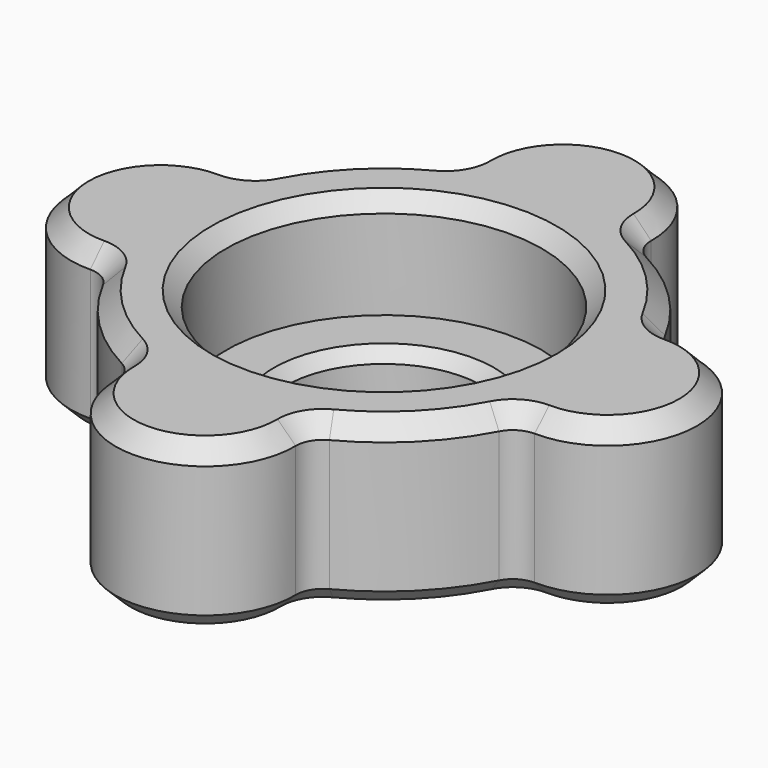
from build123d import *

# Parameters (mm, degrees)
SKETCH_R           = 7.5
SKETCH_R_2         = 3.3
PAD_DEPTH          = 5.5
SKETCH001_R        = 3
PAD001_DEPTH       = 5.5
POLARPATTERN_COUNT = 4
FILLET_R           = 0.9
SKETCH002_R        = 5.3
POCKET_DEPTH       = 3.5
CHAMFER_SIZE       = 0.4
CHAMFER001_SIZE    = 0.6
CHAMFER002_SIZE    = 0.5
CHAMFER003_SIZE    = 0.5
CHAMFER004_SIZE    = 0.5


with BuildPart() as part:
    # Sketch → Pad (new body)
    with BuildSketch(Plane.XY):
        Circle(SKETCH_R)
        Circle(SKETCH_R_2, mode=Mode.SUBTRACT)
    extrude(amount=PAD_DEPTH)

    # Sketch001 (on Face3 of Pad) → Pad001 (join)
    with BuildSketch(Plane(origin=(0, 0, 0), x_dir=(1, 0, 0), z_dir=(0, 0, -1))):
        with Locations((0, -7.5)):
            Circle(SKETCH001_R)
    pad001 = extrude(amount=-PAD001_DEPTH)

    # PolarPattern: Pad001 ×4 about axis
    polarpattern_axis = Axis((0, 0, 0), (0, 0, -1))
    for i in range(1, POLARPATTERN_COUNT):
        add(pad001.rotate(polarpattern_axis, i * 360 / POLARPATTERN_COUNT))

    # Fillet
    fillet_edges = [part.edges().sort_by_distance(p)[0] for p in [
        (-2.939388, -6.9, 2.75),
        (-6.9, -2.939388, 2.75),
        (6.9, -2.939388, 2.75),
        (2.939388, -6.9, 2.75),
        (6.9, 2.939388, 2.75),
        (2.939388, 6.9, 2.75),
        (-2.939388, 6.9, 2.75),
        (-6.9, 2.939388, 2.75),
    ]]
    fillet(fillet_edges, radius=FILLET_R)

    # Sketch002 (on Face17 of Fillet) → Pocket (cut)
    with BuildSketch(Plane.XY.offset(5.5)):
        Circle(SKETCH002_R)
    extrude(amount=-POCKET_DEPTH, mode=Mode.SUBTRACT)

    # Chamfer
    chamfer_edges = [part.edges().sort_by_distance(p)[0] for p in [
        (-3.3, 0, 2),
    ]]
    chamfer(chamfer_edges, length=CHAMFER_SIZE)

    # Chamfer001
    chamfer001_edges = [part.edges().sort_by_distance(p)[0] for p in [
        (-5.303301, 5.303301, 5.5),
        (-10.499911, -0.023078, 5.5),
        (-5.303301, -5.303301, 5.5),
        (0.023078, -10.499911, 5.5),
        (5.303301, -5.303301, 5.5),
        (10.499911, 0.023078, 5.5),
        (5.303301, 5.303301, 5.5),
        (-0.023078, 10.499911, 5.5),
    ]]
    chamfer(chamfer001_edges, length=CHAMFER001_SIZE)

    # Chamfer002
    chamfer002_edges = [part.edges().sort_by_distance(p)[0] for p in [
        (5.303301, -5.303301, 0),
        (0.023078, -10.499911, 0),
        (-5.303301, -5.303301, 0),
        (-10.499911, -0.023078, 0),
        (-5.303301, 5.303301, 0),
        (-0.023078, 10.499911, 0),
        (5.303301, 5.303301, 0),
        (10.499911, 0.023078, 0),
    ]]
    chamfer(chamfer002_edges, length=CHAMFER002_SIZE)

    # Chamfer003
    chamfer003_edges = [part.edges().sort_by_distance(p)[0] for p in [
        (-3.3, 0, 0),
    ]]
    chamfer(chamfer003_edges, length=CHAMFER003_SIZE)

    # Chamfer004
    chamfer004_edges = [part.edges().sort_by_distance(p)[0] for p in [
        (3.747666, -3.747666, 5.5),
        (0, -5.3, 5.5),
        (-3.747666, -3.747666, 5.5),
        (-5.3, 0, 5.5),
        (-3.747666, 3.747666, 5.5),
        (0, 5.3, 5.5),
        (3.747666, 3.747666, 5.5),
        (5.230207, -0.857283, 5.5),
        (5.230207, 0.857283, 5.5),
    ]]
    chamfer(chamfer004_edges, length=CHAMFER004_SIZE)


solid = part.part
